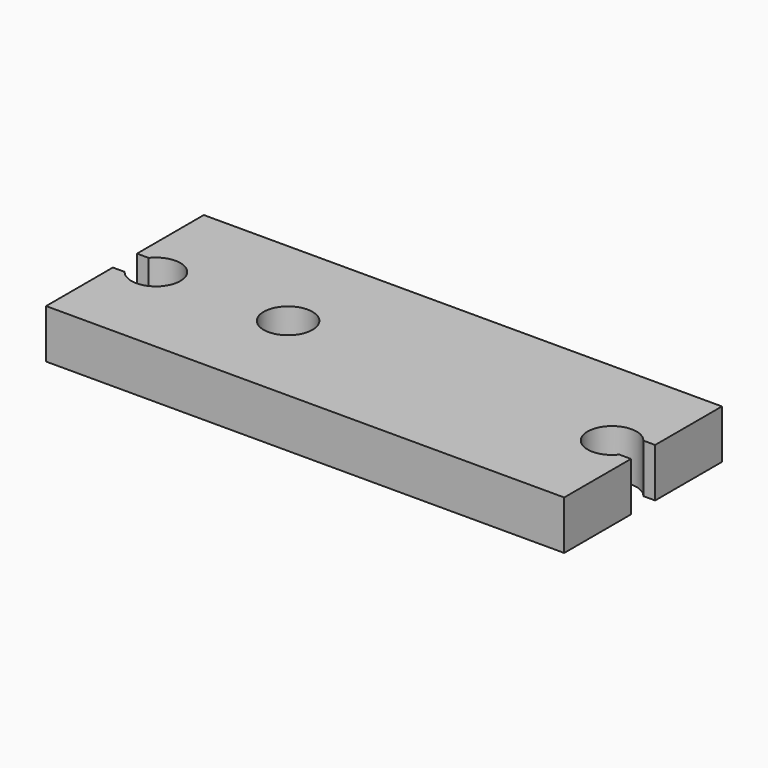
from build123d import *

# Parameters (mm, degrees)
F0_R     = 1.5
F1_DEPTH = 3


with BuildPart() as f1:
    # F0 (on Top) → F1 (new body)
    with BuildSketch(Plane.XY):
        with BuildLine():
            Line((15.9, 6.05), (-15.9, 6.05))
            Line((-15.9, 6.05), (-15.9, 0.92558))
            Line((-15.9, 0.92558), (-15.180382, 0.92558))
            ThreePointArc((-15.180382, 0.92558), (-12.5, 0), (-15.180382, -0.92558))
            Line((-15.180382, -0.92558), (-15.9, -0.92558))
            Line((-15.9, -0.92558), (-15.9, -6.05))
            Line((-15.9, -6.05), (15.9, -6.05))
            Line((15.9, -6.05), (15.9, -0.92558))
            Line((15.9, -0.92558), (15.180382, -0.92558))
            ThreePointArc((15.180382, -0.92558), (12.5, 0), (15.180382, 0.92558))
            Line((15.180382, 0.92558), (15.9, 0.92558))
            Line((15.9, 0.92558), (15.9, 6.05))
        make_face()
        with Locations((-5.88706, 0)):
            Circle(F0_R, mode=Mode.SUBTRACT)
    extrude(amount=F1_DEPTH)


solid = f1.part
